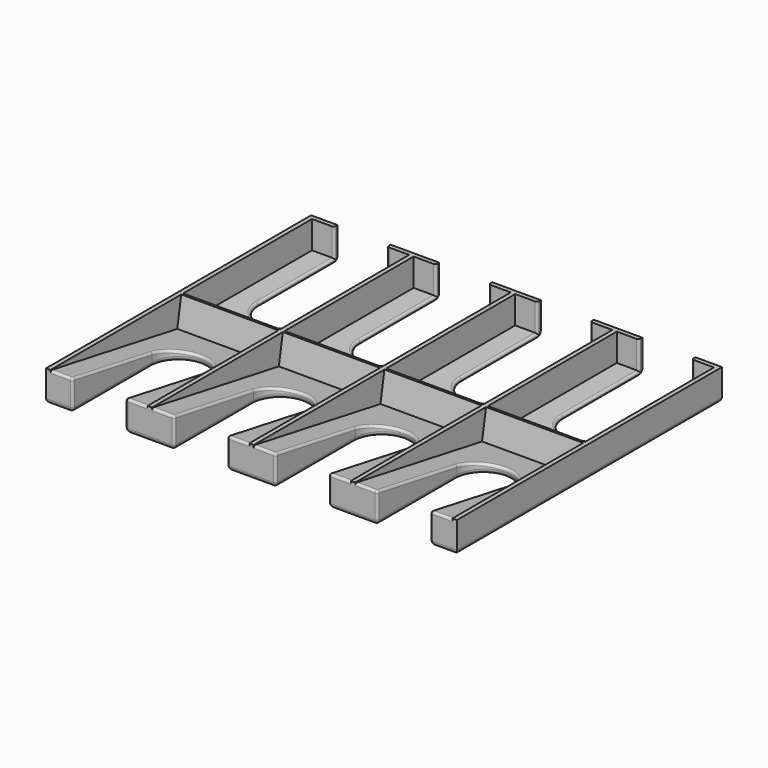
from build123d import *

# Parameters (mm, degrees)
SKETCH002_W                        = 186
SKETCH002_H                        = 150
PAD002_DEPTH                       = 14
SKETCH003_W                        = 44
SKETCH003_H                        = 73
POCKET_DEPTH                       = 12.5
LINEARPATTERN_COUNT                = 4
LINEARPATTERN_PITCH                = 46
SKETCH004_W                        = 44
SKETCH004_H                        = 73
POCKET001_DEPTH                    = 13
LINEARPATTERN001_COUNT             = 4
LINEARPATTERN001_PITCH             = 46
POCKET002_DEPTH                    = 492.715946
POCKET002_LINEARPATTERN002_2_DEPTH = 492.715946
POCKET002_LINEARPATTERN002_3_DEPTH = 492.715946
POCKET002_LINEARPATTERN002_4_DEPTH = 492.715946
FILLET_R                           = 1
FILLET001_R                        = 1
FILLET002_R                        = 2


with BuildPart() as part:
    # Sketch002 → Pad002 (new body)
    with BuildSketch(Plane.XY):
        Rectangle(SKETCH002_W, SKETCH002_H)
    extrude(amount=PAD002_DEPTH)

    # Sketch003 (on DatumPlane) → Pocket (cut)
    with BuildSketch(Plane(origin=(-69, 0, 14), x_dir=(1, 0, 0), z_dir=(0, 0, 1))):
        with Locations((0, 36.5)):
            Rectangle(SKETCH003_W, SKETCH003_H)
    pocket = extrude(amount=-POCKET_DEPTH, mode=Mode.SUBTRACT)

    # LinearPattern: Pocket ×4
    with Locations(*[(i * LINEARPATTERN_PITCH, 0, 0) for i in range(1, LINEARPATTERN_COUNT)]):
        add(pocket, mode=Mode.SUBTRACT)

    # Sketch004 (on DatumPlane) → Pocket001 (cut)
    with BuildSketch(Plane(origin=(-69, -1, 14), x_dir=(1, 0, 0), z_dir=(0, 0.173648, 0.984808))):
        with Locations((0, -36.5)):
            Rectangle(SKETCH004_W, SKETCH004_H)
    pocket001 = extrude(amount=-POCKET001_DEPTH, mode=Mode.SUBTRACT)

    # LinearPattern001: Pocket001 ×4
    with Locations(*[(i * LINEARPATTERN001_PITCH, 0, 0) for i in range(1, LINEARPATTERN001_COUNT)]):
        add(pocket001, mode=Mode.SUBTRACT)

    # Sketch005 (on DatumPlane) → Pocket002 (cut, through all)
    with BuildSketch(Plane(origin=(-69, 30, 14), x_dir=(1, 0, 0), z_dir=(0, 0, 1))):
        with BuildLine():
            Line((12, 0), (12, 50))
            Line((12, 50), (-12, 50))
            Line((-12, 50), (-12, 0))
            ThreePointArc((-12, 0), (0, -12), (12, 0))
        make_face()
    pocket002 = extrude(amount=-POCKET002_DEPTH, mode=Mode.SUBTRACT)

    # Sketch005 LinearPattern002 2 → Pocket002 LinearPattern002 2 (cut, through all)
    with BuildSketch(Plane(origin=(-23, 30, 14), x_dir=(1, 0, 0), z_dir=(0, 0, 1))):
        with BuildLine():
            Line((12, 0), (12, 50))
            Line((12, 50), (-12, 50))
            Line((-12, 50), (-12, 0))
            ThreePointArc((-12, 0), (0, -12), (12, 0))
        make_face()
    pocket002_linearpattern002_2 = extrude(amount=-POCKET002_LINEARPATTERN002_2_DEPTH, mode=Mode.SUBTRACT)

    # Sketch005 LinearPattern002 3 → Pocket002 LinearPattern002 3 (cut, through all)
    with BuildSketch(Plane(origin=(23, 30, 14), x_dir=(1, 0, 0), z_dir=(0, 0, 1))):
        with BuildLine():
            Line((12, 0), (12, 50))
            Line((12, 50), (-12, 50))
            Line((-12, 50), (-12, 0))
            ThreePointArc((-12, 0), (0, -12), (12, 0))
        make_face()
    pocket002_linearpattern002_3 = extrude(amount=-POCKET002_LINEARPATTERN002_3_DEPTH, mode=Mode.SUBTRACT)

    # Sketch005 LinearPattern002 4 → Pocket002 LinearPattern002 4 (cut, through all)
    with BuildSketch(Plane(origin=(69, 30, 14), x_dir=(1, 0, 0), z_dir=(0, 0, 1))):
        with BuildLine():
            Line((12, 0), (12, 50))
            Line((12, 50), (-12, 50))
            Line((-12, 50), (-12, 0))
            ThreePointArc((-12, 0), (0, -12), (12, 0))
        make_face()
    pocket002_linearpattern002_4 = extrude(amount=-POCKET002_LINEARPATTERN002_4_DEPTH, mode=Mode.SUBTRACT)

    # Mirrored001: Pocket002, Pocket002 LinearPattern002 2, Pocket002 LinearPattern002 3, Pocket002 LinearPattern002 4 across XZ
    add(pocket002.mirror(Plane.XZ), mode=Mode.SUBTRACT)
    add(pocket002_linearpattern002_2.mirror(Plane.XZ), mode=Mode.SUBTRACT)
    add(pocket002_linearpattern002_3.mirror(Plane.XZ), mode=Mode.SUBTRACT)
    add(pocket002_linearpattern002_4.mirror(Plane.XZ), mode=Mode.SUBTRACT)

    # Fillet
    fillet_edges = [part.edges().sort_by_distance(p)[0] for p in [
        (-81, -75, 6.923825),
        (-57, -75, 6.923825),
        (-35, -75, 6.923825),
        (-11, -75, 6.923825),
        (11, -75, 6.923825),
        (35, -75, 6.923825),
        (57, -75, 6.923825),
        (81, -75, 6.923825),
        (-86, -75, 13.847651),
        (-52, -75, 13.847651),
        (-40, -75, 13.847651),
        (-6, -75, 13.847651),
        (6, -75, 13.847651),
        (40, -75, 13.847651),
        (52, -75, 13.847651),
        (86, -75, 13.847651),
        (-81, -52.5, 9.880294),
        (-69, -18, 3.797013),
        (-57, -52.5, 9.880294),
        (-35, -52.5, 9.880294),
        (-23, -18, 3.797013),
        (-11, -52.5, 9.880294),
        (11, -52.5, 9.880294),
        (23, -18, 3.797013),
        (35, -52.5, 9.880294),
        (57, -52.5, 9.880294),
        (69, -18, 3.797013),
        (81, -52.5, 9.880294),
    ]]
    fillet(fillet_edges, radius=FILLET_R)

    # Fillet001
    fillet001_edges = [part.edges().sort_by_distance(p)[0] for p in [
        (81, 51.5, 1.5),
        (69, 18, 1.5),
        (81, 73, 7.75),
        (57, 51.5, 1.5),
        (57, 73, 7.75),
        (35, 73, 7.75),
        (35, 51.5, 1.5),
        (23, 18, 1.5),
        (11, 51.5, 1.5),
        (11, 73, 7.75),
        (-11, 73, 7.75),
        (-11, 51.5, 1.5),
        (-23, 18, 1.5),
        (-35, 51.5, 1.5),
        (-35, 73, 7.75),
        (-57, 73, 7.75),
        (-57, 51.5, 1.5),
        (-69, 18, 1.5),
        (-81, 51.5, 1.5),
        (-81, 73, 7.75),
    ]]
    fillet(fillet001_edges, radius=FILLET001_R)

    # Fillet002
    fillet002_edges = [part.edges().sort_by_distance(p)[0] for p in [
        (-93, 0, 0),
        (93, 0, 0),
        (87, 75, 0),
        (46, 75, 0),
        (0, 75, 0),
        (-46, 75, 0),
        (-87, 75, 0),
        (87.5, -75, 0),
        (46, -75, 0),
        (0, -75, 0),
        (-46, -75, 0),
        (-87.5, -75, 0),
    ]]
    fillet(fillet002_edges, radius=FILLET002_R)


with BuildPart() as part_1:
    # Body001 placement: moved
    add(part.part.moved(Location((0, 71, 0))))


solid = part_1.part
